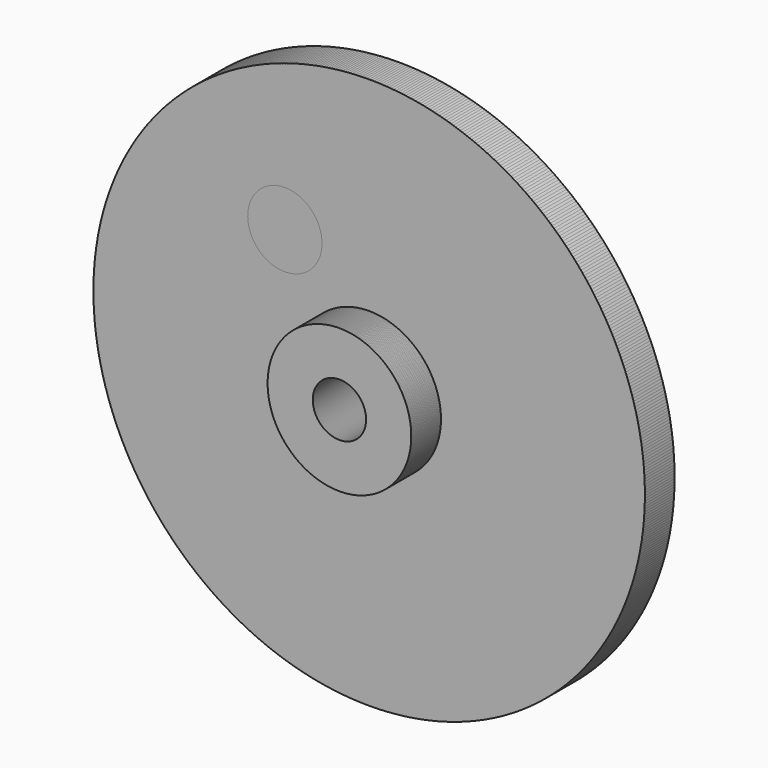
from build123d import *

# Parameters (mm, degrees)
F0_R     = 47.150532
F0_R_2   = 12.278641
F1_DEPTH = 6.35
F0_R_3   = 4.564412
F2_DEPTH = 12.7
F4_D     = 12.7
F5_COUNT = 10


with BuildPart() as f1:
    # F0 (on Front) → F1 (new body)
    with BuildSketch(Plane.XZ):
        Circle(F0_R)
        Circle(F0_R_2, mode=Mode.SUBTRACT)
    extrude(amount=F1_DEPTH)

    # F0 (on Front) → F2 (join)
    with BuildSketch(Plane.XZ):
        Circle(F0_R_2)
        Circle(F0_R_3, mode=Mode.SUBTRACT)
    extrude(amount=F2_DEPTH)

    # F4 (through all)
    with Locations(Plane.XZ.offset(6.35)):
        with Locations((0, 24.519194)):
            Hole(F4_D / 2)


with BuildPart() as f5_1:
    # F5: instance of F1
    add(f1.part.rotate(Axis((0, 0, 0), (0, 1, 0)), 1 * 360 / F5_COUNT))


with BuildPart() as f5_2:
    # F5: instance of F1
    add(f1.part.rotate(Axis((0, 0, 0), (0, 1, 0)), 2 * 360 / F5_COUNT))


with BuildPart() as f5_3:
    # F5: instance of F1
    add(f1.part.rotate(Axis((0, 0, 0), (0, 1, 0)), 3 * 360 / F5_COUNT))


with BuildPart() as f5_4:
    # F5: instance of F1
    add(f1.part.rotate(Axis((0, 0, 0), (0, 1, 0)), 4 * 360 / F5_COUNT))


with BuildPart() as f5_5:
    # F5: instance of F1
    add(f1.part.rotate(Axis((0, 0, 0), (0, 1, 0)), 5 * 360 / F5_COUNT))


with BuildPart() as f5_6:
    # F5: instance of F1
    add(f1.part.rotate(Axis((0, 0, 0), (0, 1, 0)), 6 * 360 / F5_COUNT))


with BuildPart() as f5_7:
    # F5: instance of F1
    add(f1.part.rotate(Axis((0, 0, 0), (0, 1, 0)), 7 * 360 / F5_COUNT))


with BuildPart() as f5_8:
    # F5: instance of F1
    add(f1.part.rotate(Axis((0, 0, 0), (0, 1, 0)), 8 * 360 / F5_COUNT))


with BuildPart() as f5_9:
    # F5: instance of F1
    add(f1.part.rotate(Axis((0, 0, 0), (0, 1, 0)), 9 * 360 / F5_COUNT))


solid = Compound([f1.part, f5_1.part, f5_2.part, f5_3.part, f5_4.part, f5_5.part, f5_6.part, f5_7.part, f5_8.part, f5_9.part])
